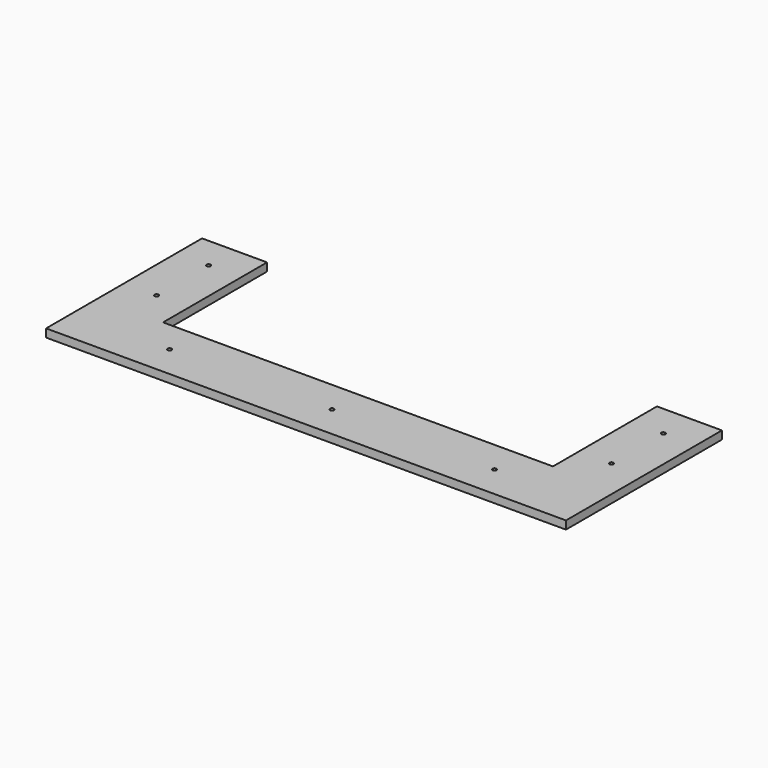
from build123d import *

# Parameters (mm, degrees)
F1_DEPTH = 6.35
F3_DEPTH = 25.4


with BuildPart() as f1:
    # F0 (on Top) → F1 (new body)
    with BuildSketch(Plane.XY):
        Polygon((203.2, -76.2), (203.2, 76.2), (152.4, 76.2), (152.4, -25.4), (-152.4, -25.4), (-152.4, 76.2), (-203.2, 76.2), (-203.2, -76.2), align=None)
    extrude(amount=F1_DEPTH)

    # F2 (on face) → F3 (cut)
    with BuildSketch(Plane.XY.offset(6.35)):
        with BuildLine():
            ThreePointArc((-176.2125, 50.8), (-176.677468, 51.922532), (-177.8, 52.3875))
            Line((-177.8, 52.3875), (-177.8, 49.2125))
            ThreePointArc((-177.8, 49.2125), (-176.677468, 49.677468), (-176.2125, 50.8))
        make_face()
        with BuildLine():
            ThreePointArc((177.8, 52.3875), (176.2125, 50.8), (177.8, 49.2125))
            Line((177.8, 49.2125), (177.8, 52.3875))
        make_face()
        with BuildLine():
            Line((177.8, 52.3875), (177.8, 49.2125))
            ThreePointArc((177.8, 49.2125), (178.922532, 49.677468), (179.3875, 50.8))
            ThreePointArc((179.3875, 50.8), (178.922532, 51.922532), (177.8, 52.3875))
        make_face()
        with BuildLine():
            ThreePointArc((177.8, 1.5875), (176.2125, 0), (177.8, -1.5875))
            Line((177.8, -1.5875), (177.8, 1.5875))
        make_face()
        with BuildLine():
            Line((177.8, 1.5875), (177.8, -1.5875))
            ThreePointArc((177.8, -1.5875), (178.922532, -1.122532), (179.3875, 0))
            ThreePointArc((179.3875, 0), (178.922532, 1.122532), (177.8, 1.5875))
        make_face()
        with BuildLine():
            ThreePointArc((128.5875, -50.8), (127, -49.2125), (125.4125, -50.8))
            Line((125.4125, -50.8), (128.5875, -50.8))
        make_face()
        with BuildLine():
            Line((128.5875, -50.8), (125.4125, -50.8))
            ThreePointArc((125.4125, -50.8), (127, -52.3875), (128.5875, -50.8))
        make_face()
        with BuildLine():
            ThreePointArc((1.5875, -50.8), (0, -49.2125), (-1.5875, -50.8))
            Line((-1.5875, -50.8), (1.5875, -50.8))
        make_face()
        with BuildLine():
            Line((1.5875, -50.8), (-1.5875, -50.8))
            ThreePointArc((-1.5875, -50.8), (0, -52.3875), (1.5875, -50.8))
        make_face()
        with BuildLine():
            ThreePointArc((-125.4125, -50.8), (-127, -49.2125), (-128.5875, -50.8))
            Line((-128.5875, -50.8), (-125.4125, -50.8))
        make_face()
        with BuildLine():
            Line((-125.4125, -50.8), (-128.5875, -50.8))
            ThreePointArc((-128.5875, -50.8), (-127, -52.3875), (-125.4125, -50.8))
        make_face()
        with BuildLine():
            ThreePointArc((-176.2125, 0), (-176.677468, 1.122532), (-177.8, 1.5875))
            Line((-177.8, 1.5875), (-177.8, -1.5875))
            ThreePointArc((-177.8, -1.5875), (-176.677468, -1.122532), (-176.2125, 0))
        make_face()
        with BuildLine():
            Line((-177.8, -1.5875), (-177.8, 1.5875))
            ThreePointArc((-177.8, 1.5875), (-179.3875, 0), (-177.8, -1.5875))
        make_face()
        with BuildLine():
            Line((-177.8, 49.2125), (-177.8, 52.3875))
            ThreePointArc((-177.8, 52.3875), (-179.3875, 50.8), (-177.8, 49.2125))
        make_face()
    extrude(amount=-F3_DEPTH, mode=Mode.SUBTRACT)


solid = f1.part
